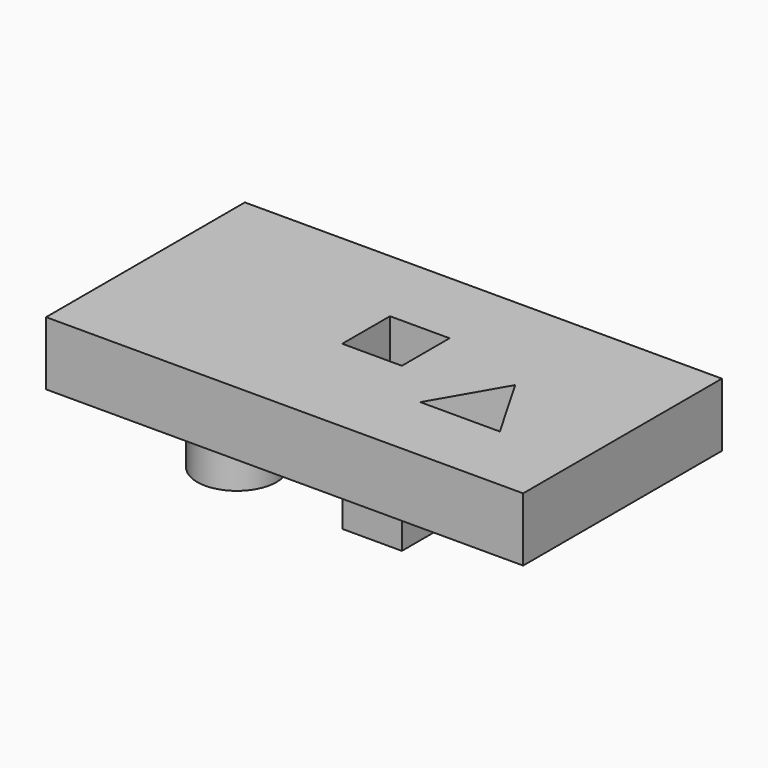
from build123d import *

# Parameters (mm, degrees)
F0_R     = 12.7
F1_DEPTH = 20.32
F2_DEPTH = 31.75
F3_DEPTH = 31.75


with BuildPart() as f1:
    # F0 (on Top) → F1 (new body)
    with BuildSketch(Plane.XY):
        Polygon((-107.95, -44.45), (0, -44.45), (44.45, -44.45), (44.45, 34.925), (-107.95, 34.925), align=None)
        Polygon((-6.35, -21.997045), (6.35, 0), (19.05, -21.997045), align=None, mode=Mode.SUBTRACT)
        with Locations((-82.55, 0)):
            Circle(F0_R, mode=Mode.SUBTRACT)
        Polygon((-22.225, 9.525), (-22.225, 0), (-22.225, -9.525), (-41.275, -9.525), (-41.275, 9.525), align=None, mode=Mode.SUBTRACT)
        with Locations((-82.55, 0)):
            Circle(F0_R)
    extrude(amount=F1_DEPTH)

    # F0 (on Top) → F2 (join)
    with BuildSketch(Plane.XY):
        with Locations((-82.55, 0)):
            Circle(F0_R)
    extrude(amount=-F2_DEPTH)


with BuildPart() as f3:
    # F0 (on Top) → F3 (new body)
    with BuildSketch(Plane.XY):
        Polygon((-22.225, -9.525), (-22.225, 0), (-22.225, 9.525), (-41.275, 9.525), (-41.275, -9.525), align=None)
    extrude(amount=-F3_DEPTH)


solid = Compound([f1.part, f3.part])
